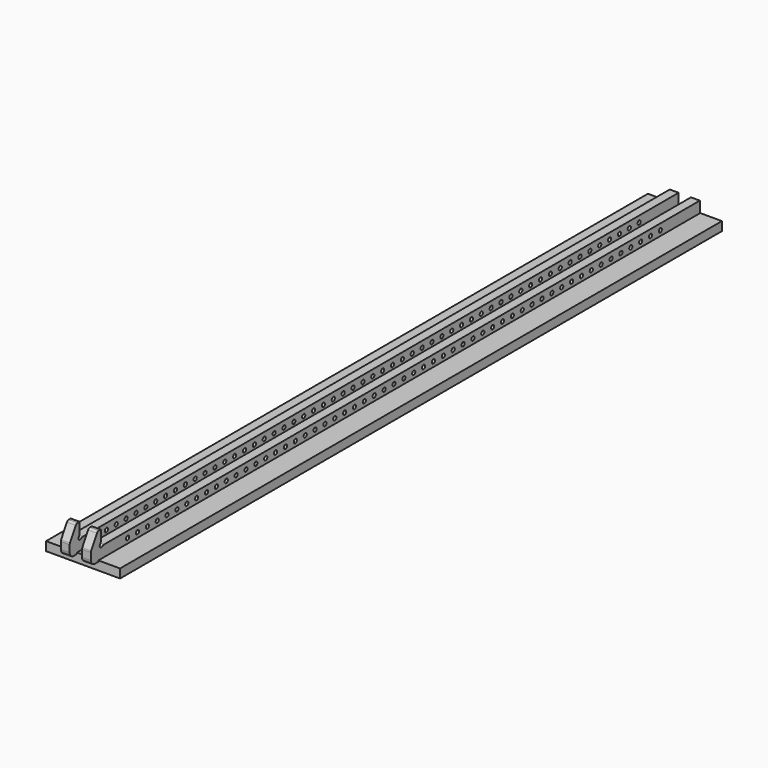
from build123d import *

# Parameters (mm, degrees)
F0_R          = 4
F1_DEPTH      = 18
F4_DEPTH      = 25
F4_DEPTH_BACK = 1500


with BuildPart() as f1:
    # F0 (on Right) → F1 (new body)
    with BuildSketch(Plane.YZ):
        with BuildLine():
            Line((-18, 48.081086), (-18, 70))
            Line((-18, 70), (-23.055514, 70))
            ThreePointArc((-23.055514, 70), (-25.605514, 69.31673), (-27.472243, 67.45))
            Line((-27.472243, 67.45), (-42.330127, 41.71539))
            ThreePointArc((-42.330127, 41.71539), (-42.829629, 40.509486), (-43, 39.21539))
            Line((-43, 39.21539), (-43, 25))
            ThreePointArc((-43, 25), (-40.071068, 17.928932), (-33, 15))
            Line((-33, 15), (1500, 15))
            Line((1500, 15), (1500, 40))
            Line((1500, 40), (-9.918914, 40))
            ThreePointArc((-9.918914, 40), (-11.814502, 39.626742), (-13.427074, 38.562697))
            ThreePointArc((-13.427074, 38.562697), (-19.414214, 38.585786), (-19.437303, 44.572926))
            ThreePointArc((-19.437303, 44.572926), (-18.373258, 46.185498), (-18, 48.081086))
        make_face()
        with Locations((50, 27.5)):
            Circle(F0_R, mode=Mode.SUBTRACT)
        with Locations((75, 27.5)):
            Circle(F0_R, mode=Mode.SUBTRACT)
        with Locations((100, 27.5)):
            Circle(F0_R, mode=Mode.SUBTRACT)
        with Locations((125, 27.5)):
            Circle(F0_R, mode=Mode.SUBTRACT)
        with Locations((150, 27.5)):
            Circle(F0_R, mode=Mode.SUBTRACT)
        with Locations((175, 27.5)):
            Circle(F0_R, mode=Mode.SUBTRACT)
        with Locations((200, 27.5)):
            Circle(F0_R, mode=Mode.SUBTRACT)
        with Locations((225, 27.5)):
            Circle(F0_R, mode=Mode.SUBTRACT)
        with Locations((250, 27.5)):
            Circle(F0_R, mode=Mode.SUBTRACT)
        with Locations((275, 27.5)):
            Circle(F0_R, mode=Mode.SUBTRACT)
        with Locations((300, 27.5)):
            Circle(F0_R, mode=Mode.SUBTRACT)
        with Locations((325, 27.5)):
            Circle(F0_R, mode=Mode.SUBTRACT)
        with Locations((350, 27.5)):
            Circle(F0_R, mode=Mode.SUBTRACT)
        with Locations((375, 27.5)):
            Circle(F0_R, mode=Mode.SUBTRACT)
        with Locations((400, 27.5)):
            Circle(F0_R, mode=Mode.SUBTRACT)
        with Locations((425, 27.5)):
            Circle(F0_R, mode=Mode.SUBTRACT)
        with Locations((450, 27.5)):
            Circle(F0_R, mode=Mode.SUBTRACT)
        with Locations((475, 27.5)):
            Circle(F0_R, mode=Mode.SUBTRACT)
        with Locations((500, 27.5)):
            Circle(F0_R, mode=Mode.SUBTRACT)
        with Locations((525, 27.5)):
            Circle(F0_R, mode=Mode.SUBTRACT)
        with Locations((550, 27.5)):
            Circle(F0_R, mode=Mode.SUBTRACT)
        with Locations((575, 27.5)):
            Circle(F0_R, mode=Mode.SUBTRACT)
        with Locations((600, 27.5)):
            Circle(F0_R, mode=Mode.SUBTRACT)
        with Locations((625, 27.5)):
            Circle(F0_R, mode=Mode.SUBTRACT)
        with Locations((650, 27.5)):
            Circle(F0_R, mode=Mode.SUBTRACT)
        with Locations((675, 27.5)):
            Circle(F0_R, mode=Mode.SUBTRACT)
        with Locations((700, 27.5)):
            Circle(F0_R, mode=Mode.SUBTRACT)
        with Locations((725, 27.5)):
            Circle(F0_R, mode=Mode.SUBTRACT)
        with Locations((750, 27.5)):
            Circle(F0_R, mode=Mode.SUBTRACT)
        with Locations((775, 27.5)):
            Circle(F0_R, mode=Mode.SUBTRACT)
        with Locations((800, 27.5)):
            Circle(F0_R, mode=Mode.SUBTRACT)
        with Locations((825, 27.5)):
            Circle(F0_R, mode=Mode.SUBTRACT)
        with Locations((850, 27.5)):
            Circle(F0_R, mode=Mode.SUBTRACT)
        with Locations((875, 27.5)):
            Circle(F0_R, mode=Mode.SUBTRACT)
        with Locations((900, 27.5)):
            Circle(F0_R, mode=Mode.SUBTRACT)
        with Locations((925, 27.5)):
            Circle(F0_R, mode=Mode.SUBTRACT)
        with Locations((950, 27.5)):
            Circle(F0_R, mode=Mode.SUBTRACT)
        with Locations((975, 27.5)):
            Circle(F0_R, mode=Mode.SUBTRACT)
        with Locations((1000, 27.5)):
            Circle(F0_R, mode=Mode.SUBTRACT)
        with Locations((1025, 27.5)):
            Circle(F0_R, mode=Mode.SUBTRACT)
        with Locations((1050, 27.5)):
            Circle(F0_R, mode=Mode.SUBTRACT)
        with Locations((1075, 27.5)):
            Circle(F0_R, mode=Mode.SUBTRACT)
        with Locations((1100, 27.5)):
            Circle(F0_R, mode=Mode.SUBTRACT)
        with Locations((1125, 27.5)):
            Circle(F0_R, mode=Mode.SUBTRACT)
        with Locations((1150, 27.5)):
            Circle(F0_R, mode=Mode.SUBTRACT)
        with Locations((1175, 27.5)):
            Circle(F0_R, mode=Mode.SUBTRACT)
        with Locations((1200, 27.5)):
            Circle(F0_R, mode=Mode.SUBTRACT)
        with Locations((1225, 27.5)):
            Circle(F0_R, mode=Mode.SUBTRACT)
        with Locations((1250, 27.5)):
            Circle(F0_R, mode=Mode.SUBTRACT)
        with Locations((1275, 27.5)):
            Circle(F0_R, mode=Mode.SUBTRACT)
        with Locations((1300, 27.5)):
            Circle(F0_R, mode=Mode.SUBTRACT)
        with Locations((1325, 27.5)):
            Circle(F0_R, mode=Mode.SUBTRACT)
        with Locations((1350, 27.5)):
            Circle(F0_R, mode=Mode.SUBTRACT)
        with Locations((1375, 27.5)):
            Circle(F0_R, mode=Mode.SUBTRACT)
        with Locations((1400, 27.5)):
            Circle(F0_R, mode=Mode.SUBTRACT)
    extrude(amount=F1_DEPTH)


with BuildPart() as f2_1:
    # F2: copy of F1
    add(f1.part.moved(Location((43, 0, 0))))


with BuildPart() as f4:
    # F3 (on Front) → F4 (new body, two sides)
    with BuildSketch(Plane.XZ) as f4_sk:
        Polygon((-44.25, 18), (-44.25, 0), (105.75, 0), (105.75, 18), (61.75, 18), (61.75, 15), (43.25, 15), (43.25, 18), (18.25, 18), (18.25, 15), (-0.25, 15), (-0.25, 18), align=None)
    extrude(amount=F4_DEPTH)
    extrude(f4_sk.sketch, amount=-F4_DEPTH_BACK)


solid = Compound([f1.part, f2_1.part, f4.part])
